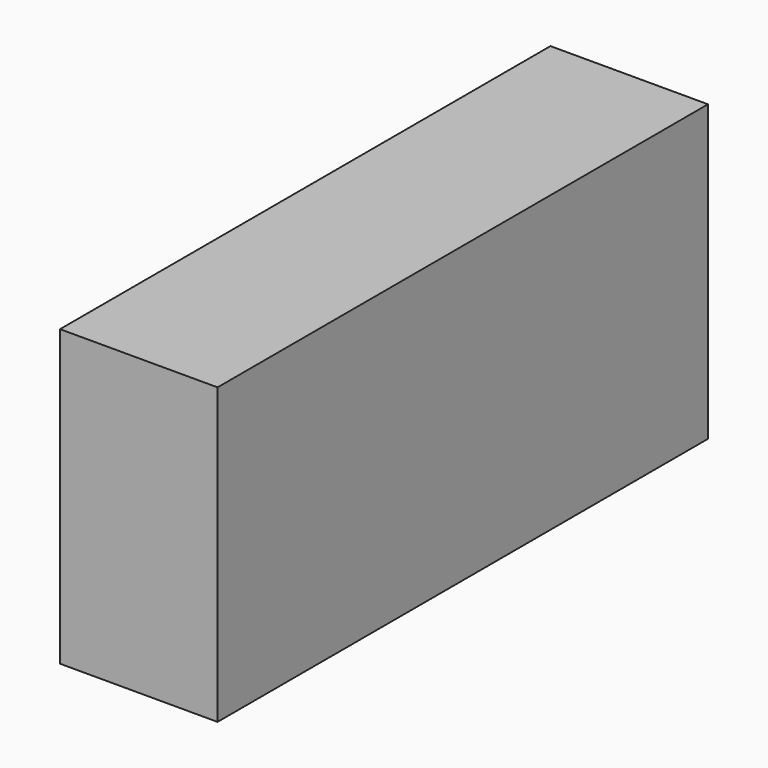
from build123d import *

# Parameters (mm, degrees)
F0_W     = 46
F0_H     = 86
F1_DEPTH = 179
F2_W     = 40
F2_H     = 74
F3_DEPTH = 176
F4_R     = 1.5
F5_DEPTH = 8


with BuildPart() as f1:
    # F0 (on Front) → F1 (new body)
    with BuildSketch(Plane.XZ):
        Rectangle(F0_W, F0_H)
    extrude(amount=F1_DEPTH)

    # F2 (on face) → F3 (cut)
    with BuildSketch(Plane(origin=(0, 0, 0), x_dir=(-1, 0, 0), z_dir=(0, 1, 0))):
        Rectangle(F2_W, F2_H)
    extrude(amount=-F3_DEPTH, mode=Mode.SUBTRACT)

    # F4 (on face) → F5 (cut)
    with BuildSketch(Plane(origin=(0, 0, 0), x_dir=(-1, 0, 0), z_dir=(0, 1, 0))):
        with Locations((0, 40.5)):
            Circle(F4_R)
        with Locations((0, -40.5)):
            Circle(F4_R)
    extrude(amount=-F5_DEPTH, mode=Mode.SUBTRACT)


solid = f1.part
